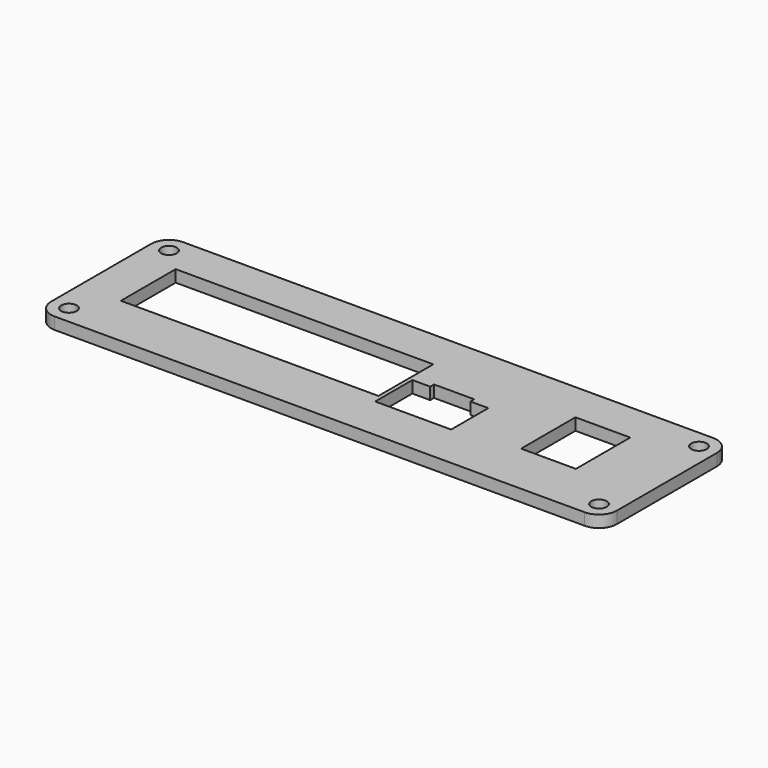
from build123d import *

# Parameters (mm, degrees)
SKETCH_W        = 95
SKETCH_H        = 27
PAD_DEPTH       = 2
SKETCH001_R     = 1.3
POCKET_DEPTH    = 2
FILLET_R        = 3
SKETCH002_W     = 9.2
SKETCH002_H     = 11.4
POCKET001_DEPTH = 2
SKETCH004_W     = 43.25
SKETCH004_H     = 11.5
POCKET002_DEPTH = 2
POCKET003_DEPTH = 2


with BuildPart() as part:
    # Sketch → Pad (new body)
    with BuildSketch(Plane.XY):
        Rectangle(SKETCH_W, SKETCH_H)
    extrude(amount=PAD_DEPTH)

    # Sketch001 (on Face6 of Pad) → Pocket (cut)
    with BuildSketch(Plane.XY.offset(2)):
        with Locations((-44.5, 10.5)):
            Circle(SKETCH001_R)
        with Locations((44.5, 10.5)):
            Circle(SKETCH001_R)
        with Locations((44.5, -10.5)):
            Circle(SKETCH001_R)
        with Locations((-44.5, -10.5)):
            Circle(SKETCH001_R)
    extrude(amount=-POCKET_DEPTH, mode=Mode.SUBTRACT)

    # Fillet
    fillet_edges = [part.edges().sort_by_distance(p)[0] for p in [
        (-47.5, -13.5, 1),
        (47.5, -13.5, 1),
        (47.5, 13.5, 1),
        (-47.5, 13.5, 1),
    ]]
    fillet(fillet_edges, radius=FILLET_R)

    # Sketch002 (on Face5 of Fillet) → Pocket001 (cut)
    with BuildSketch(Plane.XY.offset(2)):
        with Locations((31.3, 1.1)):
            Rectangle(SKETCH002_W, SKETCH002_H)
    extrude(amount=-POCKET001_DEPTH, mode=Mode.SUBTRACT)

    # Sketch004 (on Face5 of Pocket001) → Pocket002 (cut)
    with BuildSketch(Plane.XY.offset(2)):
        with Locations((-18.875, 1.15)):
            Rectangle(SKETCH004_W, SKETCH004_H)
    extrude(amount=-POCKET002_DEPTH, mode=Mode.SUBTRACT)

    # Sketch005 (on Face5 of Pocket002) → Pocket003 (cut)
    with BuildSketch(Plane.XY.offset(2)):
        Polygon((16.15, 1.7), (16.15, -6.1), (3.4, -6.1), (3.4, 1.7), (6.4, 1.7), (6.4, 2.5), (13.15, 2.5), (13.15, 1.7), align=None)
    extrude(amount=-POCKET003_DEPTH, mode=Mode.SUBTRACT)


solid = part.part
